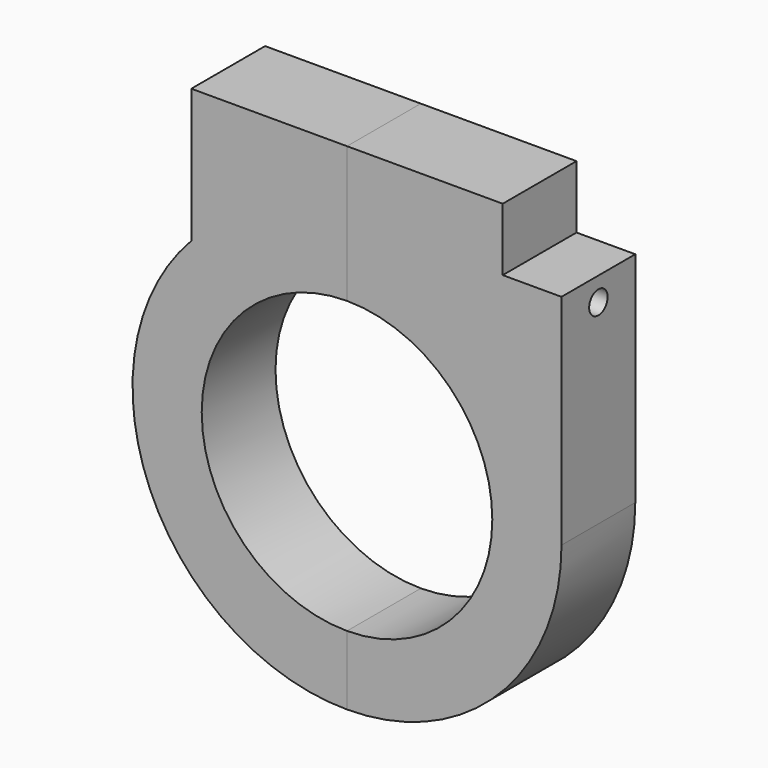
from build123d import *

# Parameters (mm, degrees)
F0_W     = 33.7587080829
F0_H     = 13.62929273
F1_DEPTH = 10
F3_D     = 5
F4_DEPTH = 10
F5_D     = 5
F5_2_D   = 5


with BuildPart() as f1:
    # F0 (on Front) → F1 (new body, symmetric)
    with BuildSketch(Plane.XZ):
        with Locations((16.8793540414, 54.2072419244)):
            Rectangle(F0_W, F0_H)
        with BuildLine():
            Line((0, 47.3925955594), (0, 46.5))
            ThreePointArc((0, 46.5), (18.3748170801, 42.7155252487), (33.7587080829, 31.9781117106))
            Line((33.7587080829, 31.9781117106), (33.7587080829, 47.3925955594))
            Line((33.7587080829, 47.3925955594), (0, 47.3925955594))
        make_face()
        with BuildLine():
            Line((0, 46.5), (0, 31.9781117106))
            Line((0, 31.9781117106), (33.7587080829, 31.9781117106))
            ThreePointArc((33.7587080829, 31.9781117106), (18.3748170801, 42.7155252487), (0, 46.5))
        make_face()
        with BuildLine():
            ThreePointArc((0, 31.5), (22.2738636074, 22.2738636074), (31.5, 0))
            ThreePointArc((31.5, 0), (22.2738636074, -22.2738636074), (0, -31.5))
            Line((0, -31.5), (0, -46.5))
            ThreePointArc((0, -46.5), (32.8804653252, -32.8804653252), (46.5, 0))
            ThreePointArc((46.5, 0), (43.1973953257, 17.2114798049), (33.7587080829, 31.9781117106))
            Line((33.7587080829, 31.9781117106), (0, 31.9781117106))
            Line((0, 31.9781117106), (0, 31.5))
        make_face()
        with BuildLine():
            Line((33.7587080829, 47.3925955594), (33.7587080829, 31.9781117106))
            ThreePointArc((33.7587080829, 31.9781117106), (43.1973953257, 17.2114798049), (46.5, 0))
            Line((46.5, 0), (46.5, 47.3925955594))
            Line((46.5, 47.3925955594), (33.7587080829, 47.3925955594))
        make_face()
    extrude(amount=F1_DEPTH, both=True)

    # F3 (through all)
    with Locations(Plane.YZ.offset(46.5)):
        with Locations((0, 42.2871597111)):
            Hole(F3_D / 2)

    # F5 (through all)
    with Locations(Plane.YZ.offset(46.5)):
        with Locations((0, -42.2871597111)):
            Hole(F5_D / 2)


with BuildPart() as f4:
    # F0 (on Front) → F4 (new body, symmetric)
    with BuildSketch(Plane.XZ):
        with BuildLine():
            Line((-33.7587080829, 31.9781117106), (0, 31.9781117106))
            Line((0, 31.9781117106), (0, 46.5))
            ThreePointArc((0, 46.5), (-18.3748170801, 42.7155252487), (-33.7587080829, 31.9781117106))
        make_face()
        with BuildLine():
            ThreePointArc((0, -31.5), (-31.5, 0), (0, 31.5))
            Line((0, 31.5), (0, 31.9781117106))
            Line((0, 31.9781117106), (-33.7587080829, 31.9781117106))
            ThreePointArc((-33.7587080829, 31.9781117106), (-43.1973953151, 17.2114798316), (-46.5, 5.75e-08))
            ThreePointArc((-46.5, 5.75e-08), (-32.8804653455, -32.8804653048), (0, -46.5))
            Line((0, -46.5), (0, -31.5))
        make_face()
        with Locations((-16.8793540414, 54.2072419244)):
            Rectangle(F0_W, F0_H)
        with BuildLine():
            ThreePointArc((-33.7587080829, 31.9781117106), (-18.3748170801, 42.7155252487), (0, 46.5))
            Line((0, 46.5), (0, 47.3925955594))
            Line((0, 47.3925955594), (-33.7587080829, 47.3925955594))
            Line((-33.7587080829, 47.3925955594), (-33.7587080829, 31.9781117106))
        make_face()
    extrude(amount=F4_DEPTH, both=True)

    # F5#2 (through all)
    with Locations(Plane.YZ.offset(46.5)):
        with Locations((0, -42.2871597111)):
            Hole(F5_2_D / 2)


solid = Compound([f1.part, f4.part])
